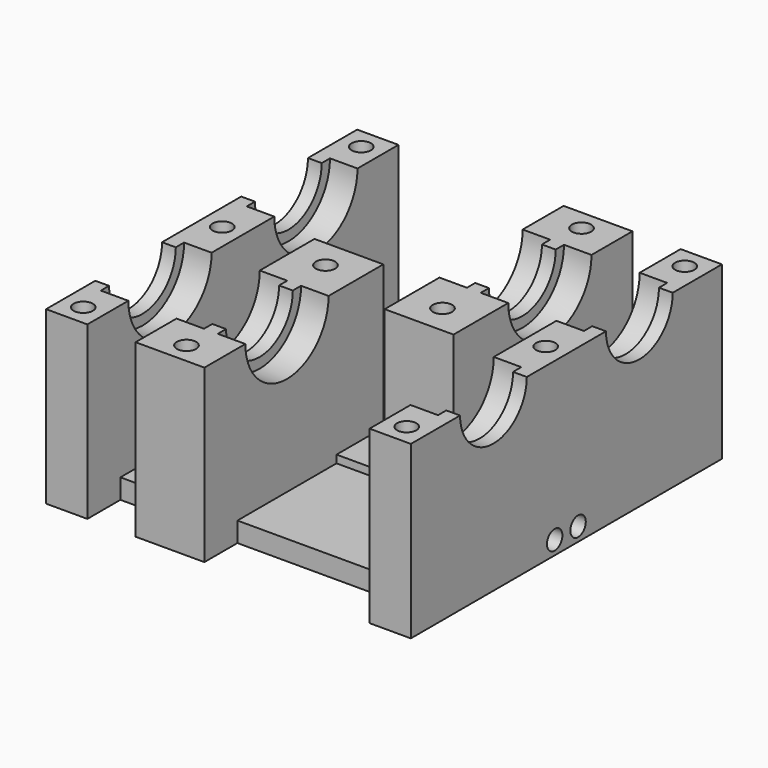
from build123d import *

# Parameters (mm, degrees)
SKETCH001_W   = 53
SKETCH001_H   = 44.5
PAD_DEPTH     = 2.88
SKETCH_W      = 6
SKETCH_H      = 18
SKETCH_W_2    = 10
PAD001_DEPTH  = 24.88
SKETCH002_W   = 53
SKETCH002_H   = 6.06
SKETCH003_W   = 32
SKETCH003_H   = 7.56
SKETCH003_W_2 = 15
SKETCH005_W   = 6
SKETCH005_H   = 6
SKETCH005_R   = 1.4
SKETCH005_W_2 = 10
SKETCH005_H_2 = 8.5
PAD002_DEPTH  = 24.88
SKETCH006_W   = 8.5
SKETCH006_H   = 4
PAD003_DEPTH  = 53
SKETCH007_R   = 1.4
POCKET_DEPTH  = 53.001


with BuildPart() as part:
    # Sketch001 → Pad (new body)
    with BuildSketch(Plane.XY):
        with Locations((26.5, -4.25)):
            Rectangle(SKETCH001_W, SKETCH001_H)
    extrude(amount=PAD_DEPTH)

    # Sketch → Pad001 (join)
    with BuildSketch(Plane.XY):
        with Locations((3, 9)):
            Rectangle(SKETCH_W, SKETCH_H)
        with Locations((35, 9)):
            Rectangle(SKETCH_W_2, SKETCH_H)
        with Locations((3, -17.5)):
            Rectangle(SKETCH_W, SKETCH_H)
        with Locations((18, -17.5)):
            Rectangle(SKETCH_W_2, SKETCH_H)
        with Locations((50, 9)):
            Rectangle(SKETCH_W, SKETCH_H)
        with Locations((50, -17.5)):
            Rectangle(SKETCH_W, SKETCH_H)
    extrude(amount=PAD001_DEPTH)

    # Sketch002 (on Face53 of Pad001) → Groove (revolve, cut)
    with BuildSketch(Plane.XY.offset(24.88)):
        with Locations((26.5, 12.03)):
            Rectangle(SKETCH002_W, SKETCH002_H)
    revolve(axis=Axis((0, 9, 24.88), (-1, 0, 0)), mode=Mode.SUBTRACT)

    # Sketch003 (on Face36 of Groove) → Groove001 (revolve, cut)
    with BuildSketch(Plane.XY.offset(24.88)):
        with Locations((18, 12.78)):
            Rectangle(SKETCH003_W, SKETCH003_H)
        with Locations((43.5, 12.78)):
            Rectangle(SKETCH003_W_2, SKETCH003_H)
    revolve(axis=Axis((0, 9, 24.88), (-1, 0, 0)), mode=Mode.SUBTRACT)

    # Sketch004 → Groove002 (revolve, cut)
    with BuildSketch(Plane.XY.offset(24.88)):
        Polygon((0, -17.5), (53, -17.5), (53, -11.44), (51, -11.44), (51, -9.94), (47, -9.94), (47, -11.44), (23, -11.44), (23, -9.94), (19, -9.94), (19, -11.44), (17, -11.44), (17, -9.94), (2, -9.94), (2, -11.44), (0, -11.44), align=None)
    revolve(axis=Axis((0, -17.5, 24.88), (1, 0, 0)), mode=Mode.SUBTRACT)

    # Sketch005 → Pad002 (join)
    with BuildSketch(Plane.XY):
        with Locations((3, -29.5)):
            Rectangle(SKETCH005_W, SKETCH005_H)
        with Locations((3, -29.5)):
            Circle(SKETCH005_R, mode=Mode.SUBTRACT)
        with Locations((18, -29.5)):
            Rectangle(SKETCH005_W_2, SKETCH005_H)
        with Locations((18, -29.5)):
            Circle(SKETCH005_R, mode=Mode.SUBTRACT)
        with Locations((50, -29.5)):
            Rectangle(SKETCH005_W, SKETCH005_H)
        with Locations((50, -29.5)):
            Circle(SKETCH005_R, mode=Mode.SUBTRACT)
        with Locations((3, 21)):
            Rectangle(SKETCH005_W, SKETCH005_H)
        with Locations((3, 21)):
            Circle(SKETCH005_R, mode=Mode.SUBTRACT)
        with Locations((35, 21)):
            Rectangle(SKETCH005_W_2, SKETCH005_H)
        with Locations((35, 21)):
            Circle(SKETCH005_R, mode=Mode.SUBTRACT)
        with Locations((50, 21)):
            Rectangle(SKETCH005_W, SKETCH005_H)
        with Locations((50, 21)):
            Circle(SKETCH005_R, mode=Mode.SUBTRACT)
        with Locations((3, -4.25)):
            Rectangle(SKETCH005_W, SKETCH005_H_2)
        with Locations((3, -4.25)):
            Circle(SKETCH005_R, mode=Mode.SUBTRACT)
        with Locations((18, -4.25)):
            Rectangle(SKETCH005_W_2, SKETCH005_H_2)
        with Locations((18, -4.25)):
            Circle(SKETCH005_R, mode=Mode.SUBTRACT)
        with Locations((35, -4.25)):
            Rectangle(SKETCH005_W_2, SKETCH005_H_2)
        with Locations((35, -4.25)):
            Circle(SKETCH005_R, mode=Mode.SUBTRACT)
        with Locations((50, -4.25)):
            Rectangle(SKETCH005_W, SKETCH005_H_2)
        with Locations((50, -4.25)):
            Circle(SKETCH005_R, mode=Mode.SUBTRACT)
    extrude(amount=PAD002_DEPTH)

    # Sketch006 → Pad003 (join)
    with BuildSketch(Plane.YZ):
        with Locations((-4.25, 2)):
            Rectangle(SKETCH006_W, SKETCH006_H)
    extrude(amount=PAD003_DEPTH)

    # Sketch007 → Pocket (cut, through all)
    with BuildSketch(Plane.YZ):
        with Locations((-2.125, 2)):
            Circle(SKETCH007_R)
        with Locations((-6.375, 2)):
            Circle(SKETCH007_R)
    extrude(amount=POCKET_DEPTH, mode=Mode.SUBTRACT)


solid = part.part
